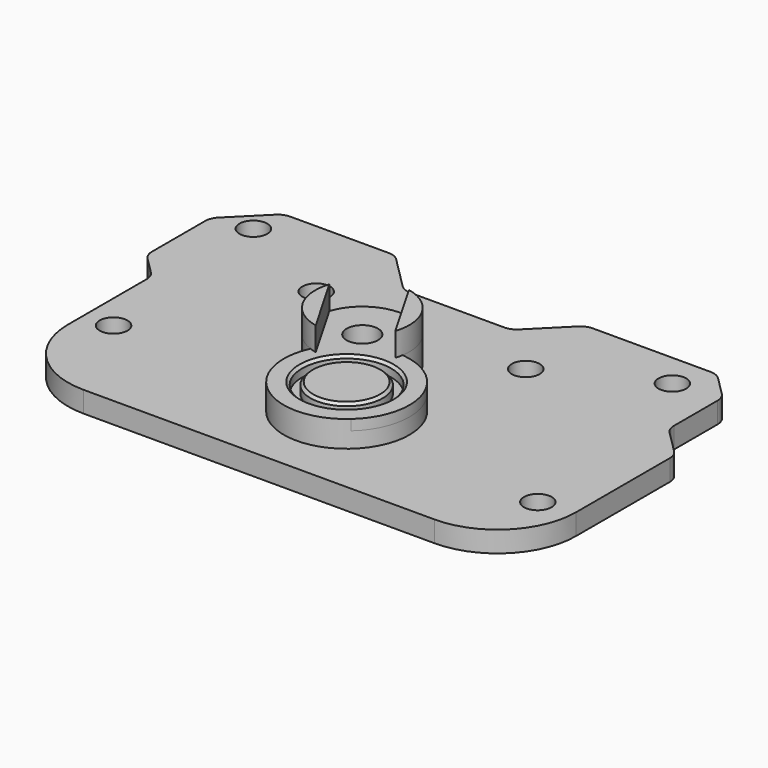
from build123d import *

# Parameters (mm, degrees)
SKETCH_R        = 12
SKETCH_R_2      = 8.5
PAD_DEPTH       = 2
SKETCH001_R     = 8.5
SKETCH001_R_2   = 3
PAD001_DEPTH    = 5
SKETCH002_R     = 8.5
PAD002_DEPTH    = 3
SKETCH003_R     = 6.9
PAD003_DEPTH    = 2
PAD004_DEPTH    = 4.5
SKETCH006_R     = 3
POCKET_DEPTH    = 5
SKETCH005_R     = 2.65
PAD005_DEPTH    = 4
POCKET001_DEPTH = 5
FILLET_R        = 15
FILLET001_R     = 3
CHAMFER_SIZE    = 0.5


with BuildPart() as part:
    # Sketch → Pad (new body)
    with BuildSketch(Plane.XY):
        Circle(SKETCH_R)
        Circle(SKETCH_R_2, mode=Mode.SUBTRACT)
    extrude(amount=PAD_DEPTH)

    # Sketch001 (on Face4 of Pad) → Pad001 (join)
    with BuildSketch(Plane.XY.offset(2)):
        with BuildLine():
            ThreePointArc((1.128054, 11.946861), (-12.25, 21.217622), (-10.910313, 4.996507))
            ThreePointArc((-10.910313, 4.996507), (6, -10.392305), (1.128054, 11.946861))
        make_face()
        Circle(SKETCH001_R, mode=Mode.SUBTRACT)
        with Locations((-7.75, 13.423394)):
            Circle(SKETCH001_R_2, mode=Mode.SUBTRACT)
    extrude(amount=-PAD001_DEPTH)

    # Sketch002 (on Face6 of Pad001) → Pad002 (join)
    with BuildSketch(Plane(origin=(0, 0, -3), x_dir=(1, 0, 0), z_dir=(0, 0, -1))):
        Circle(SKETCH002_R)
    extrude(amount=-PAD002_DEPTH)

    # Sketch003 (on Face11 of Pad002) → Pad003 (join)
    with BuildSketch(Plane.XY):
        Circle(SKETCH003_R)
    extrude(amount=PAD003_DEPTH)

    # Sketch004 (on Face7 of Pad003) → Pad004 (join)
    with BuildSketch(Plane.XY.offset(2)):
        with BuildLine():
            Line((-16.300254, 16.232869), (-9.59205, 4.613919))
            ThreePointArc((-16.300254, 16.232869), (-15.544229, 8.923394), (-9.59205, 4.613919))
        make_face()
        with BuildLine():
            Line((0.800254, 10.613919), (-5.90795, 22.232869))
            ThreePointArc((0.800254, 10.613919), (0.044229, 17.923394), (-5.90795, 22.232869))
        make_face()
    extrude(amount=PAD004_DEPTH)

    # Sketch006 → Pocket (cut)
    with BuildSketch(Plane.XY.offset(-3)):
        with Locations((-7.75, 13.423394)):
            Circle(SKETCH006_R)
    extrude(amount=-POCKET_DEPTH, mode=Mode.SUBTRACT)

    # Sketch005 (on Face19 of Pad004) → Pad005 (join)
    with BuildSketch(Plane.XY.offset(-3)):
        Polygon((-50, -19), (47, -19), (47, 16), (47, 19.612766), (40.954486, 25.65828), (40.954486, 38.553597), (35.588654, 43.919429), (10.631642, 43.919429), (2.616306, 35.904092), (-17.846332, 35.904092), (-25.861669, 43.919429), (-47.134287, 43.919429), (-54.927801, 36.125915), (-54.927801, 20.927801), (-50, 16), align=None)
        with Locations((-44.5, 0)):
            Circle(SKETCH005_R, mode=Mode.SUBTRACT)
        with Locations((40.5, -5)):
            Circle(SKETCH005_R, mode=Mode.SUBTRACT)
        with Locations((-27.75, 27.423394)):
            Circle(SKETCH005_R, mode=Mode.SUBTRACT)
        with Locations((-47.75, 37.423394)):
            Circle(SKETCH005_R, mode=Mode.SUBTRACT)
        with Locations((32.25, 37.423394)):
            Circle(SKETCH005_R, mode=Mode.SUBTRACT)
        with Locations((12.25, 27.423394)):
            Circle(SKETCH005_R, mode=Mode.SUBTRACT)
    extrude(amount=-PAD005_DEPTH)

    # Sketch008 (on Face5 of Pad005) → Pocket001 (cut)
    with BuildSketch(Plane(origin=(0, 0, -7), x_dir=(1, 0, 0), z_dir=(0, 0, -1))):
        Polygon((-10.75, -8.227241), (-13.75, -13.423394), (-10.75, -18.619546), (-4.75, -18.619546), (-1.75, -13.423394), (-4.75, -8.227241), align=None)
    extrude(amount=-POCKET001_DEPTH, mode=Mode.SUBTRACT)

    # Fillet
    fillet_edges = [part.edges().sort_by_distance(p)[0] for p in [
        (-50, -19, -5),
        (47, -19, -5),
    ]]
    fillet(fillet_edges, radius=FILLET_R)

    # Fillet001
    fillet001_edges = [part.edges().sort_by_distance(p)[0] for p in [
        (-50, 16, -5),
        (-54.927801, 20.927801, -5),
        (-54.927801, 36.125915, -5),
        (-47.134287, 43.919429, -5),
        (47, 19.612766, -5),
        (40.954486, 25.65828, -5),
        (40.954486, 38.553597, -5),
        (35.588654, 43.919429, -5),
        (10.631642, 43.919429, -5),
        (2.616306, 35.904092, -5),
        (-17.846332, 35.904092, -5),
        (-25.861669, 43.919429, -5),
    ]]
    fillet(fillet001_edges, radius=FILLET001_R)

    # Chamfer
    chamfer_edges = [part.edges().sort_by_distance(p)[0] for p in [
        (-8.5, 0, 2),
        (-6.9, 0, 2),
    ]]
    chamfer(chamfer_edges, length=CHAMFER_SIZE)


solid = part.part
